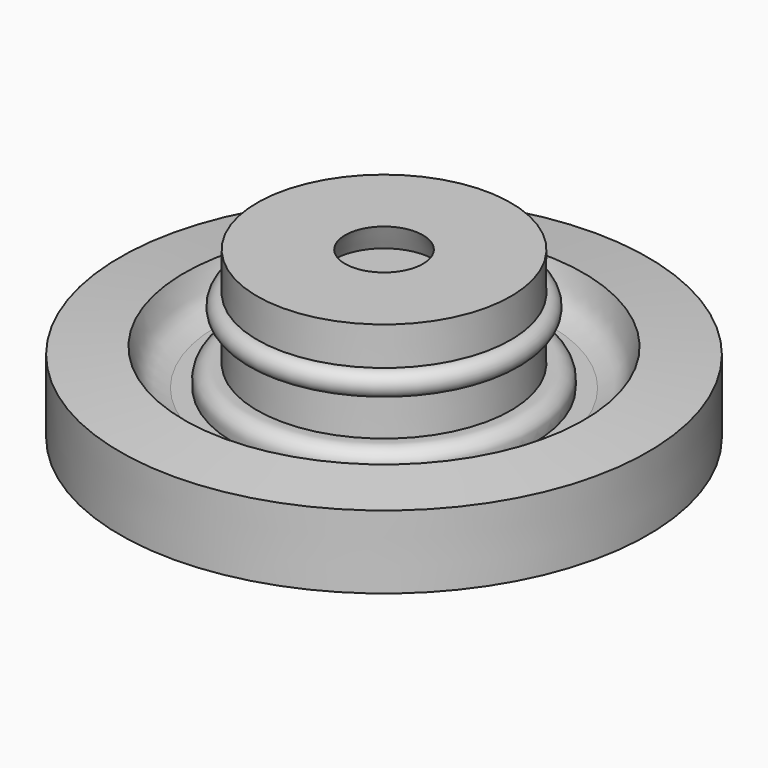
from build123d import *


with BuildPart() as f1:
    # F0 (on Right) → F1 (revolve)
    with BuildSketch(Plane.YZ):
        with BuildLine():
            Line((-46.9556226969, 41.8351761341), (-69.1806226969, 41.8351761341))
            Line((-69.1806226969, 41.8351761341), (-69.1806226969, 32.1524369806))
            ThreePointArc((-69.1806226969, 32.1524369806), (-72.1978835434, 29.1351761341), (-69.1806226969, 26.1179152876))
            Line((-69.1806226969, 26.1179152876), (-69.1806226969, 16.4351761341))
            add(Edge.make_bspline(
                [(-69.1806226969, 16.4351761341), (-70.2947342204, 16.5976760305), (-72.492577032, 16.9182446824), (-75.2316923168, 14.5326755613), (-75.0593460743, 12.2488189069), (-74.971459806, 11.0841887072)],
                knots=[0, 0, 0, 0, 0.3350169367, 0.6608984385, 1, 1, 1, 1], degree=3))
            Line((-74.971459806, 11.0841887072), (-79.3032124639, 11.0841887072))
            add(Edge.make_bspline(
                [(-79.3032124639, 11.0841887072), (-81.1837583335, 11.5704095004), (-85.2546579169, 12.6229528371), (-86.7694560854, 17.5866072638), (-87.5844955444, 20.2573090792)],
                knots=[0, 0, 0, 0, 0.4619484787, 1, 1, 1, 1], degree=3))
            Line((-87.5844955444, 20.2573090792), (-103.8346365094, 18.4736475348))
            Line((-103.8346365094, 18.4736475348), (-103.8346365094, 0))
            Line((-103.8346365094, 0), (-37.1342365094, 0))
            Line((-37.1342365094, 0), (-37.1151443899, 35.4851761341))
            Line((-37.1151443899, 35.4851761341), (-49.8151443899, 35.4851761341))
            Line((-49.8151443899, 35.4851761341), (-46.9556226969, 41.8351761341))
        make_face()
    revolve(axis=Axis((0, -37.1246904496, 17.7425880671), (0, 0.0005380308, 0.9999998553)))


solid = f1.part
